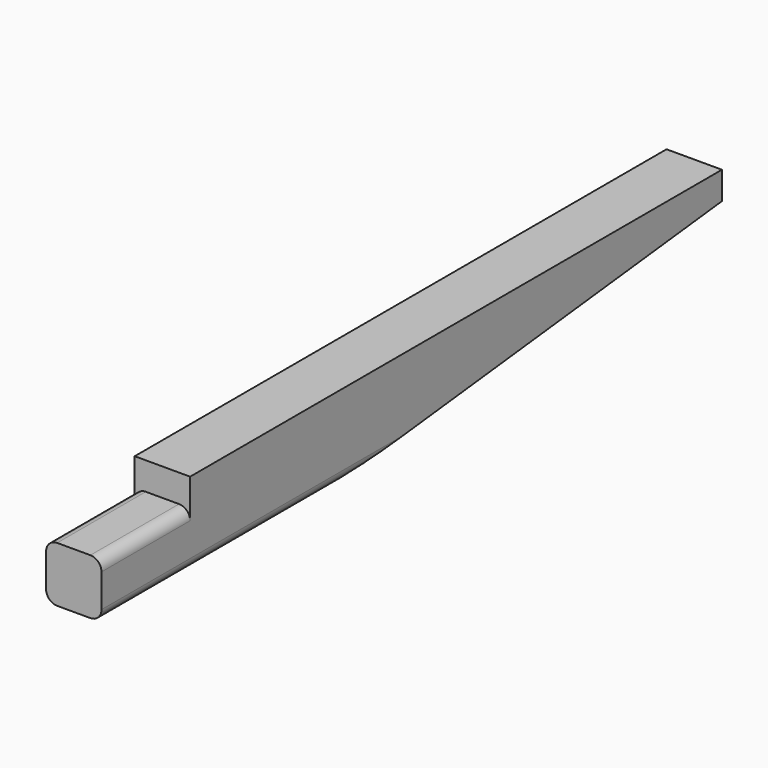
from build123d import *

# Parameters (mm, degrees)
F1_DEPTH = 6.35
F2_R     = 2.54


with BuildPart() as f1:
    # F0 (on Right) → F1 (new body, symmetric)
    with BuildSketch(Plane.YZ):
        Polygon((0, 6.35), (0, 0), (-25.4, 0), (-25.4, -12.7), (38.1, -12.7), (152.4, 0), (152.4, 6.35), align=None)
    extrude(amount=F1_DEPTH, both=True)

    # F2
    f2_edges = [f1.edges().sort_by_distance(p)[0] for p in [
        (6.35, -12.7, 0),
        (-6.35, -12.7, 0),
        (6.35, 6.35, -12.7),
        (-6.35, 6.35, -12.7),
    ]]
    fillet(f2_edges, radius=F2_R)


solid = f1.part
